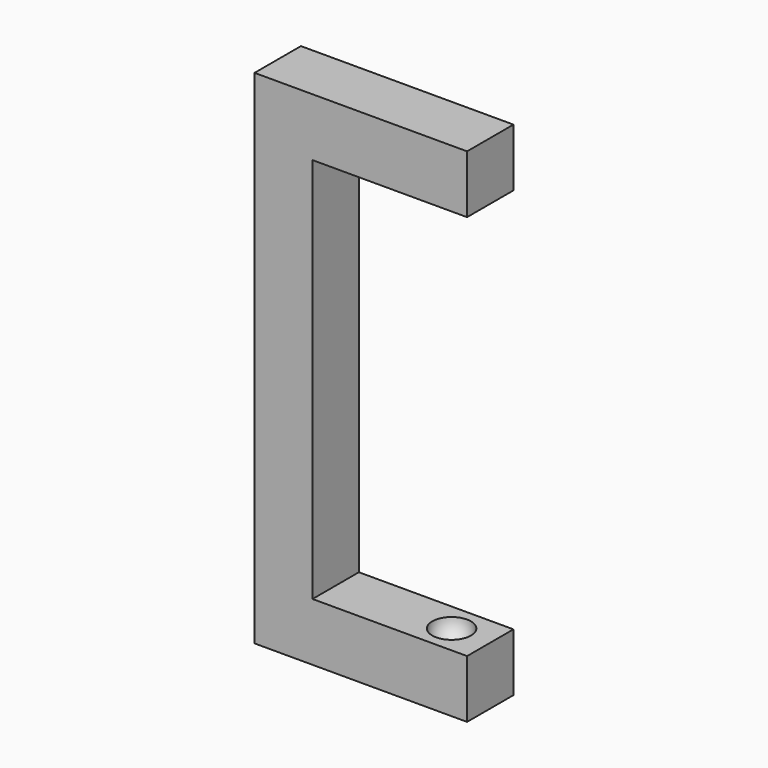
from build123d import *

# Parameters (mm, degrees)
F1_DEPTH = 15


with BuildPart() as f1:
    # F0 (on Front) → F1 (new body, symmetric)
    with BuildSketch(Plane.XZ):
        Polygon((0, 0), (0, 30), (-80, 30), (-80, 230), (0, 230), (0, 260), (-110, 260), (-110, 0), align=None)
    extrude(amount=F1_DEPTH, both=True)

    # F2 (on Front) → F3 (revolve, cut)
    with BuildSketch(Plane.XZ):
        with BuildLine():
            Line((-20, 40), (-20, 20))
            ThreePointArc((-20, 20), (-10, 30), (-20, 40))
        make_face()
        with BuildLine():
            Line((-20, 240), (-20, 220))
            ThreePointArc((-20, 220), (-10, 230), (-20, 240))
        make_face()
    revolve(axis=Axis((-20, 0, 130), (0, 0, 1)), mode=Mode.SUBTRACT)


solid = f1.part
